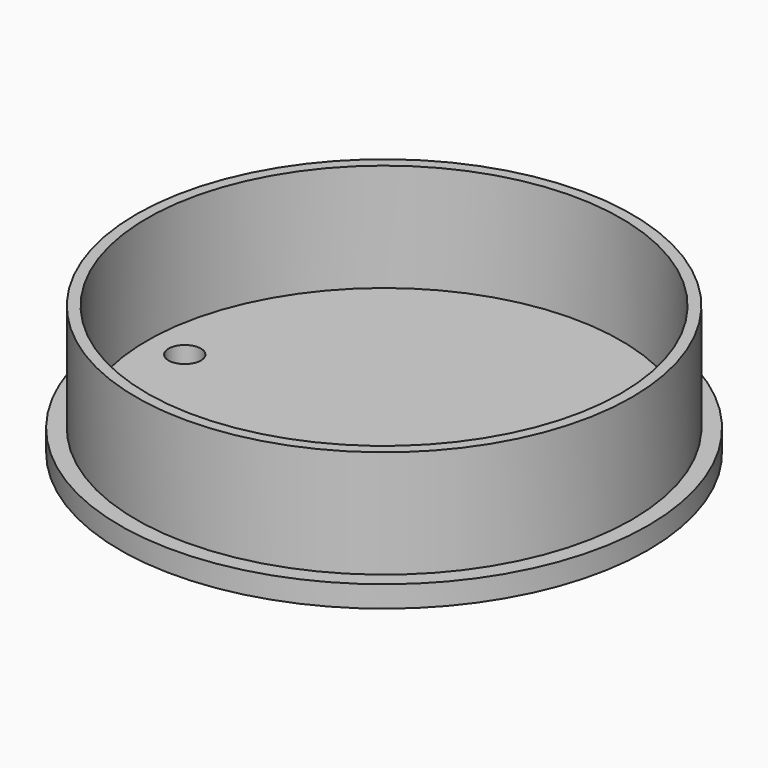
from build123d import *

# Parameters (mm, degrees)
CYLINDER001_R     = 24.5
CYLINDER001_DEPTH = 2
SKETCH_R          = 23
SKETCH_R_2        = 22
PAD_DEPTH         = 10
SKETCH002_R       = 1.5
SKETCH002_R_2     = 4
POCKET001_DEPTH   = 10


with BuildPart() as part:
    # Cylinder001 → Cylinder001 (new body)
    with BuildSketch(Plane.XY):
        Circle(CYLINDER001_R)
    extrude(amount=CYLINDER001_DEPTH)

    # Sketch → Pad (new body)
    with BuildSketch(Plane.XY.offset(2)):
        Circle(SKETCH_R)
        Circle(SKETCH_R_2, mode=Mode.SUBTRACT)
    extrude(amount=PAD_DEPTH)

    # Sketch002 → Pocket001 (cut)
    with BuildSketch(Plane.XY.offset(2)):
        with Locations((-18.5, 0)):
            Circle(SKETCH002_R)
        with Locations((18.5, 0)):
            Circle(SKETCH002_R)
        with Locations((0, -16)):
            Circle(SKETCH002_R_2)
    extrude(amount=-POCKET001_DEPTH, mode=Mode.SUBTRACT)


solid = part.part
